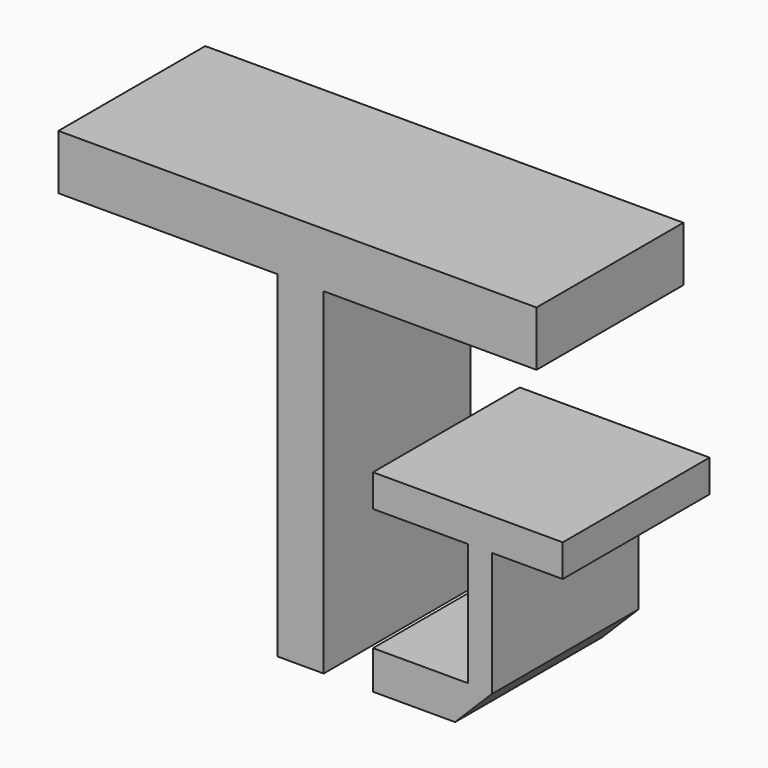
from build123d import *

# Parameters (mm, degrees)
F1_DEPTH = 25.4
F0_W     = 6.3766241074
F0_H     = 46.5644598007
F2_DEPTH = 25.4
F3_W     = 13.1279472262
F3_H     = 5.3173005581
F4_DEPTH = 25.4
F5_SIZE  = 5.08
F6_R     = 0.0926991994


with BuildPart() as f1:
    # F0 (on Front) → F1 (new body)
    with BuildSketch(Plane.XZ):
        Polygon((29.4410213828, 54.1621446609), (-36.7096215487, 54.1621446609), (-36.7096215487, 46.5644598007), (-6.3766241074, 46.5644598007), (0, 46.5644598007), (29.4410213828, 46.5644598007), align=None)
    extrude(amount=F1_DEPTH)

    # F0 (on Front) → F2 (join)
    with BuildSketch(Plane.XZ):
        with Locations((-3.1883120537, 23.2822299004)):
            Rectangle(F0_W, F0_H)
    extrude(amount=F2_DEPTH)


with BuildPart() as f4:
    # F3 (on Front) → F4 (new body)
    with BuildSketch(Plane.XZ):
        Polygon((33.0686308444, 26.7372559756), (6.812736392, 26.7372559756), (6.812736392, 22.2660899162), (19.9406836182, 22.2660899162), (23.2630521059, 22.2660899162), (33.0686308444, 22.2660899162), align=None)
        Polygon((23.2630521059, 22.2660899162), (19.9406836182, 22.2660899162), (19.9406836182, 5.3173005581), (19.9406836182, 0), (23.2630521059, 0), align=None)
        with Locations((13.3767100051, 2.658650279)):
            Rectangle(F3_W, F3_H)
    extrude(amount=F4_DEPTH)

    # F5
    f5_edges = [f4.edges().sort_by_distance(p)[0] for p in [
        (23.263052, -12.7, 0),
    ]]
    chamfer(f5_edges, length=F5_SIZE)

    # F6
    f6_edges = [f4.edges().sort_by_distance(p)[0] for p in [
        (20.723052, -25.4, 2.54),
    ]]
    fillet(f6_edges, radius=F6_R)


solid = Compound([f1.part, f4.part])
